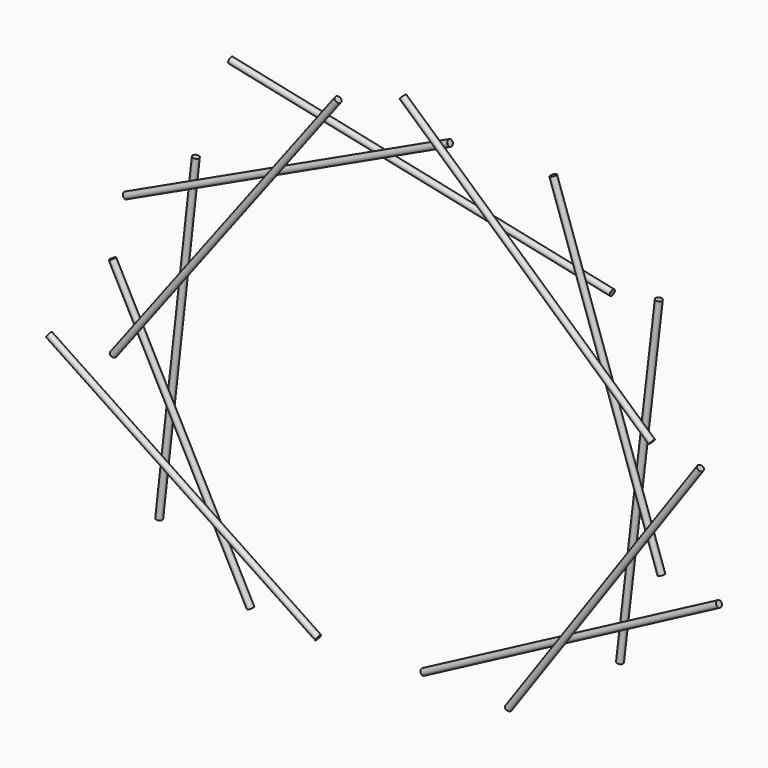
from build123d import *

# Parameters (mm, degrees)
F3_R  = 14.2875
F9_R  = 14.2875
F13_R = 14.2875
F17_R = 14.2875
F21_R = 14.2875
F25_R = 14.2875
F29_R = 14.2875
F33_R = 14.2875
F37_R = 14.2875
F41_R = 14.2875
F45_R = 14.2875


with BuildPart() as f4:
    # F4: sweep along a path in F0
    with BuildLine(Plane.XZ) as f4_path:
        Line((0, 0), (1347.8763148004, 711.2))
    # F3 (on line) → F4 (sweep)
    with BuildSketch(Plane(origin=(0, 0, 0), x_dir=(0, 1, 0), z_dir=(0.8813902642, 0, 0.4723888252))):
        Circle(F3_R)
    sweep(path=f4_path.line)


with BuildPart() as f10:
    # F10: sweep along a path in F7
    with BuildLine(Plane.XZ.offset(28.575)) as f10_path:
        Line((410.8034395753, 0), (1285.9203914789, 1247.6964055774))
    # F9 (on line) → F10 (sweep)
    with BuildSketch(Plane(origin=(135.4554023081, 0, 193.1252939487), x_dir=(0.8186984289, 0, -0.5742237217), z_dir=(0.5742237217, 0, 0.8186984289))):
        with Locations((336.3241305492, -28.575)):
            Circle(F9_R)
    sweep(path=f10_path.line)


with BuildPart() as f14:
    # F14: sweep along a path in F11
    with BuildLine(Plane.XZ.offset(-28.575)) as f14_path:
        Line((873.4737293956, 311.6431001729), (1050.7052881482, 1825.3025647098))
    # F13 (on line) → F14 (sweep)
    with BuildSketch(Plane(origin=(47.809263182, 0, 408.3186099438), x_dir=(0.9932148717, 0, -0.1162936737), z_dir=(0.1162936737, 0, 0.9932148717))):
        with Locations((831.3049771036, 28.575)):
            Circle(F13_R)
    sweep(path=f14_path.line)


with BuildPart() as f18:
    # F18: sweep along a path in F15
    with BuildLine(Plane.XZ) as f18_path:
        Line((1085.2388725713, 743.5123834057), (591.8486132189, 2185.4354229526))
    # F17 (on line) → F18 (sweep)
    with BuildSketch(Plane(origin=(-113.9999782084, 0, 333.1626272928), x_dir=(0.9461437267, 0, 0.3237468893), z_dir=(-0.3237468893, 0, 0.9461437267))):
        with Locations((1267.5017726068, 0)):
            Circle(F17_R)
    sweep(path=f18_path.line)


with BuildPart() as f22:
    # F22: sweep along a path in F19
    with BuildLine(Plane.XZ.offset(28.575)) as f22_path:
        Line((1064.491485627, 1281.2784468634), (-70.7489376977, 2298.0405533808))
    # F21 (on line) → F22 (sweep)
    with BuildSketch(Plane(origin=(-46.0932160119, 0, 41.282740154), x_dir=(0, -1, 0), z_dir=(-0.7449084143, 0, 0.6671667366))):
        with Locations((28.575, 1664.6284066338)):
            Circle(F21_R)
    sweep(path=f22_path.line)


with BuildPart() as f26:
    # F26: sweep along a path in F23
    with BuildLine(Plane.XZ.offset(-28.575)) as f26_path:
        Line((838.3043938221, 1783.2228974534), (-901.2529899708, 2150.9512054357))
    # F25 (on line) → F26 (sweep)
    with BuildSketch(Plane(origin=(441.6114677704, 0, -93.3530789738), x_dir=(0, -1, 0), z_dir=(-0.978378731, 0, 0.2068213206))):
        with Locations((-28.575, 1918.0465773498)):
            Circle(F25_R)
    sweep(path=f26_path.line)


with BuildPart() as f30:
    # F30: sweep along a path in F27
    with BuildLine(Plane.XZ) as f30_path:
        Line((121.5810066726, 2162.7233696814), (-1357.5743436813, 1470.9056615829))
    # F29 (on line) → F30 (sweep)
    with BuildSketch(Plane(origin=(929.7293196071, 0, 434.844931527), x_dir=(0, -1, 0), z_dir=(-0.9058201843, 0, -0.4236623582))):
        with Locations((0, 1907.5291852912)):
            Circle(F29_R)
    sweep(path=f30_path.line)


with BuildPart() as f34:
    # F34: sweep along a path in F31
    with BuildLine(Plane.XZ.offset(28.575)) as f34_path:
        Line((-365.7954335213, 2190.114736557), (-1391.0686969757, 833.9771032333))
    # F33 (on line) → F34 (sweep)
    with BuildSketch(Plane(origin=(920.5436499964, 0, 1217.6108861662), x_dir=(0.797687371, 0, -0.6030711883), z_dir=(-0.6030711883, 0, -0.797687371))):
        with Locations((-1612.5854944188, 28.575)):
            Circle(F33_R)
    sweep(path=f34_path.line)


with BuildPart() as f38:
    # F38: sweep along a path in F35
    with BuildLine(Plane.XZ.offset(-28.575)) as f38_path:
        Line((-1060.3234767914, 1711.1713886261), (-1227.291226387, 205.0634771585))
    # F37 (on line) → F38 (sweep)
    with BuildSketch(Plane(origin=(176.7777317095, 0, 1572.0596539092), x_dir=(0.9937368613, 0, -0.1117454721), z_dir=(-0.1117454721, 0, -0.9937368613))):
        with Locations((-1244.898178491, -28.575)):
            Circle(F37_R)
    sweep(path=f38_path.line)


with BuildPart() as f42:
    # F42: sweep along a path in F39
    with BuildLine(Plane.XZ) as f42_path:
        Line((-787.3926758766, 0), (-1417.7188873291, 1198.0091333389))
    # F41 (on line) → F42 (sweep)
    with BuildSketch(Plane(origin=(-801.040294303, 0, 1522.4713351776), x_dir=(0.8849806012, 0, 0.4656278938), z_dir=(-0.4656278938, 0, 0.8849806012))):
        with Locations((-696.8272436685, 0)):
            Circle(F41_R)
    sweep(path=f42_path.line)


with BuildPart() as f46:
    # F46: sweep along a path in F43
    with BuildLine(Plane.XZ.offset(28.575)) as f46_path:
        Line((-455.1250636578, 0), (-1682.051897049, 817.1851634979))
    # F45 (on line) → F46 (sweep)
    with BuildSketch(Plane(origin=(-1543.6288496995, 0, 1028.122101165), x_dir=(0, -1, 0), z_dir=(-0.832290059, 0, 0.5543403807))):
        with Locations((28.575, -252.2942010634)):
            Circle(F45_R)
    sweep(path=f46_path.line)


solid = Compound([f4.part, f10.part, f14.part, f18.part, f22.part, f26.part, f30.part, f34.part, f38.part, f42.part, f46.part])
